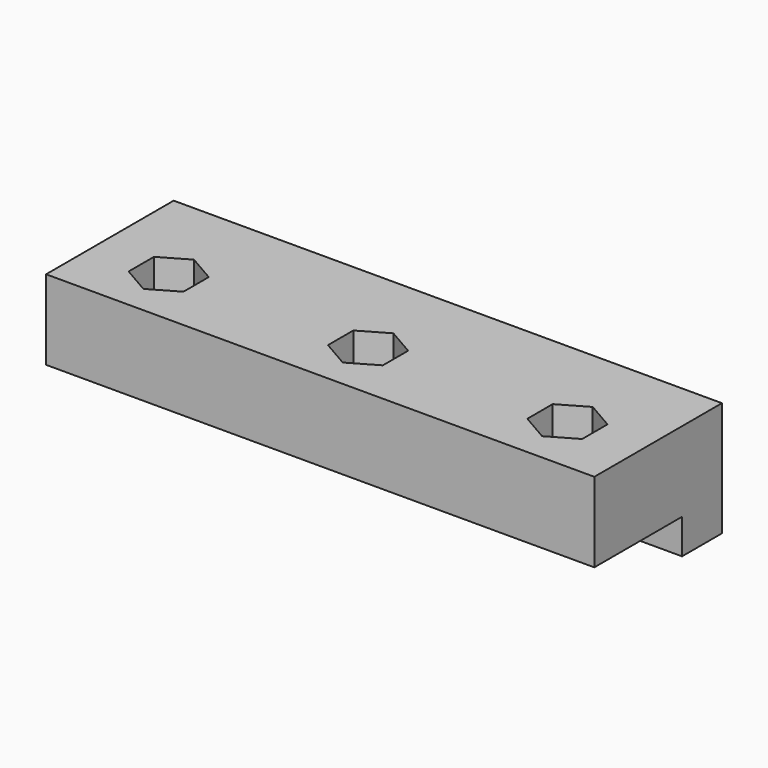
from build123d import *

# Parameters (mm, degrees)
F0_W     = 55
F0_H     = 5
F0_H_2   = 11
F1_DEPTH = 8
F0_R     = 1.75
F2_DEPTH = 4
F3_DEPTH = 3.5


with BuildPart() as f1:
    # F0 (on Top) → F1 (new body)
    with BuildSketch(Plane.XY):
        with Locations((0, 5.5)):
            Rectangle(F0_W, F0_H)
        with Locations((0, -2.5)):
            Rectangle(F0_W, F0_H_2)
        Polygon((-20, -5.175426), (-22.75, -3.587713), (-22.75, -0.412287), (-20, 1.175426), (-17.25, -0.412287), (-17.25, -3.587713), align=None, mode=Mode.SUBTRACT)
        Polygon((0, -5.175426), (-2.75, -3.587713), (-2.75, -0.412287), (0, 1.175426), (2.75, -0.412287), (2.75, -3.587713), align=None, mode=Mode.SUBTRACT)
        Polygon((20, 1.175426), (22.75, -0.412287), (22.75, -3.587713), (20, -5.175426), (17.25, -3.587713), (17.25, -0.412287), align=None, mode=Mode.SUBTRACT)
    extrude(amount=F1_DEPTH)

    # F0 (on Top) → F2 (join)
    with BuildSketch(Plane.XY):
        Polygon((-22.75, -0.412287), (-22.75, -3.587713), (-20, -5.175426), (-17.25, -3.587713), (-17.25, -0.412287), (-20, 1.175426), align=None)
        with Locations((-20, -2)):
            Circle(F0_R, mode=Mode.SUBTRACT)
        Polygon((-2.75, -0.412287), (-2.75, -3.587713), (0, -5.175426), (2.75, -3.587713), (2.75, -0.412287), (0, 1.175426), align=None)
        with Locations((0, -2)):
            Circle(F0_R, mode=Mode.SUBTRACT)
        Polygon((22.75, -3.587713), (22.75, -0.412287), (20, 1.175426), (17.25, -0.412287), (17.25, -3.587713), (20, -5.175426), align=None)
        with Locations((20, -2)):
            Circle(F0_R, mode=Mode.SUBTRACT)
    extrude(amount=F2_DEPTH)

    # F0 (on Top) → F3 (join)
    with BuildSketch(Plane.XY):
        with Locations((0, 5.5)):
            Rectangle(F0_W, F0_H)
    extrude(amount=-F3_DEPTH)


solid = f1.part
